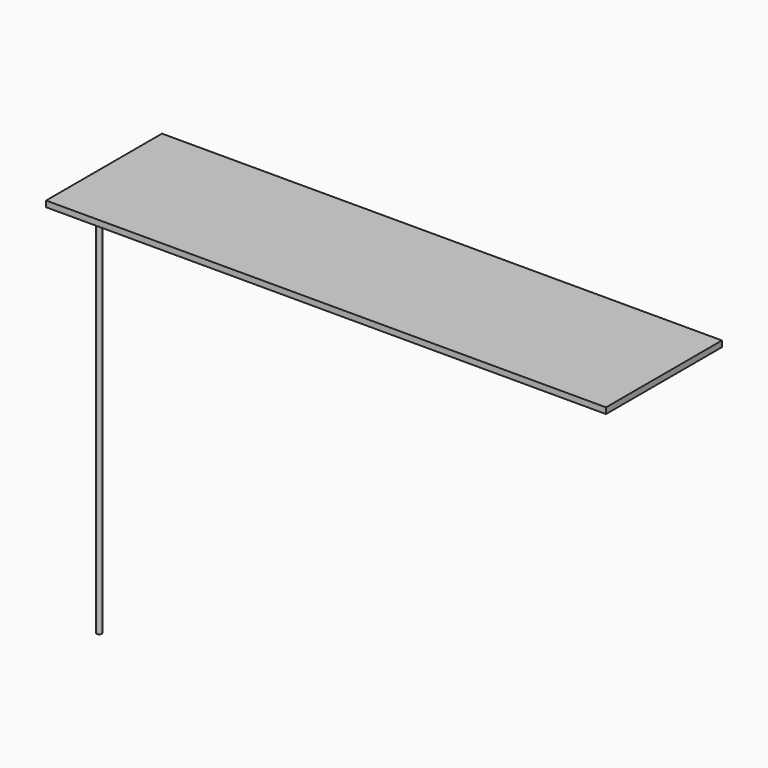
from build123d import *

# Parameters (mm, degrees)
F0_W     = 412.1005833149
F0_H     = 230.7337969542
F1_DEPTH = 15
F2_R     = 6.4013337275
F3_DEPTH = 1000
F4_DEPTH = 1000
F5_DEPTH = 134.62


with BuildPart() as f1:
    # F0 (on Top) → F1 (new body)
    with BuildSketch(Plane.XY):
        Rectangle(F0_W, F0_H)
    extrude(amount=F1_DEPTH)

    # F2 (on face) → F3 (join)
    with BuildSketch(Plane(origin=(0, 0, 0), x_dir=(1, 0, 0), z_dir=(0, 0, -1))):
        with Locations((-190.1699453592, 101.8757298589)):
            Circle(F2_R)
    extrude(amount=F3_DEPTH)

    # F4 (add): a face of the model
    f4_faces = [f1.faces().sort_by_distance(p)[0] for p in [
        (206.0502916574, 0, 7.5),
    ]]
    extrude(f4_faces, amount=F4_DEPTH)

    # F5 (add): a face of the model
    f5_faces = [f1.faces().sort_by_distance(p)[0] for p in [
        (500, -115.3668984771, 7.5),
    ]]
    extrude(f5_faces, amount=F5_DEPTH)


solid = f1.part
